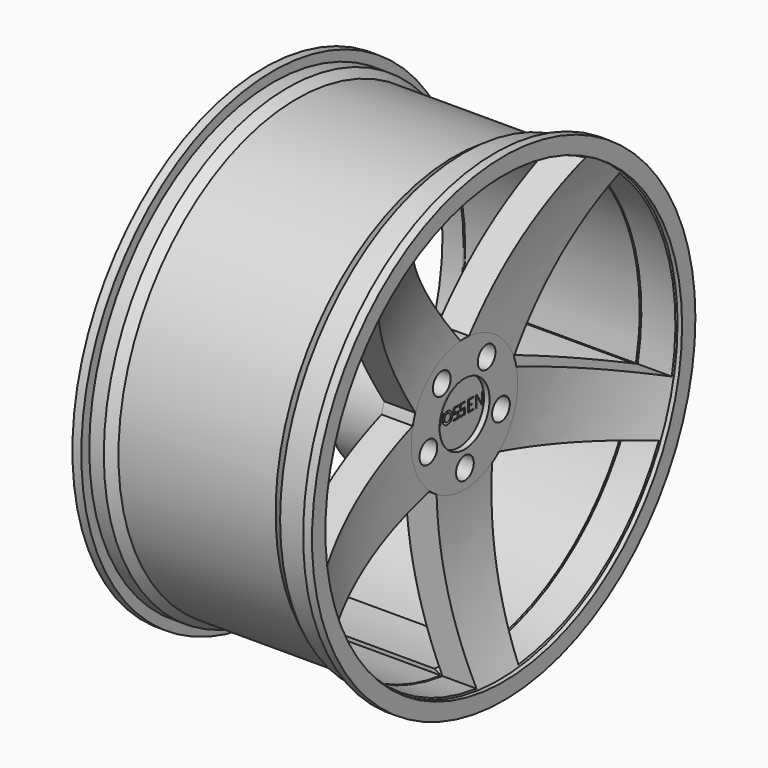
from build123d import *

# Parameters (mm, degrees)
SKETCH002_R           = 50
POCKET_DEPTH          = 25
SKETCH004_R           = 10
POCKET002_DEPTH       = 108.001
POCKET002_DEPTH_BACK  = 108.001
POCKET003_DEPTH       = 1404.001
POCKET003_DEPTH_BACK  = 1404.001
POLARPATTERN_COUNT    = 5
SKETCH006_R           = 10
POCKET004_DEPTH       = 1476.68432
POLARPATTERN001_COUNT = 5
SKETCH007_R           = 28.189095
POCKET005_DEPTH       = 5
SKETCH008_R           = 5.5
SKETCH008_R_2         = 3.5
POCKET006_DEPTH       = 5


with BuildPart() as part:
    # Sketch → Revolution (revolve)
    with BuildSketch(Plane.XY):
        Polygon((65.398537, 196), (73.283608, 201), (108, 201), (108, 216), (100, 216), (100, 207), (72.030521, 207), (63.161045, 201.026306), (-78.478595, 201.026306), (-86.908587, 207), (-100, 207), (-100, 216), (-108, 216), (-108, 201), (-99.298126, 201), (-89.018097, 201), (-80.00956, 196), align=None)
    revolve(axis=Axis((0, 0, 0), (1, 0, 0)))

    # Sketch002 → Pocket (cut)
    with BuildSketch(Plane.YZ.offset(100.668172)):
        Circle(SKETCH002_R)
    extrude(amount=-POCKET_DEPTH, mode=Mode.SUBTRACT)

    # Sketch004 → Pocket002 (cut, two sides)
    with BuildSketch(Plane.YZ) as pocket002_sk:
        with Locations((-0.107707, 35)):
            Circle(SKETCH004_R)
    extrude(amount=-POCKET002_DEPTH, mode=Mode.SUBTRACT)
    extrude(pocket002_sk.sketch, amount=POCKET002_DEPTH_BACK, mode=Mode.SUBTRACT)

    # Sketch001 → Revolution001 (revolve)
    with BuildSketch(Plane.XZ):
        with BuildLine():
            Line((0, 0), (72.68332, 0))
            Line((72.68332, 0), (72.68332, 60))
            ThreePointArc((106.76876, 206.912384), (81.092688, 135.459234), (72.68332, 60))
            Line((106.76876, 206.912384), (100.987969, 206.912384))
            Line((100.987969, 206.912384), (100.987969, 200.673078))
            Line((72.961357, 200.673078), (100.987969, 200.673078))
            ThreePointArc((72.961357, 200.673078), (51.561424, 131.791826), (44.59595, 60))
            Line((44.59595, 60), (0, 60))
            Line((0, 60), (0, 0))
        make_face()
    revolve(axis=Axis((0, 0, 0), (1, 0, 0)))

    # Sketch005 → Pocket003 (cut, two sides)
    with BuildSketch(Plane.YZ) as pocket003_sk:
        with BuildLine():
            Line((5.093784, 59.838285), (98.267148, 173.556521))
            ThreePointArc((98.267148, 173.556521), (1.040406, 199.58162), (-96.489513, 174.716788))
            Line((-4.582864, 59.879582), (-96.489513, 174.716788))
            ThreePointArc((5.093784, 59.838285), (0.256293, 60.054153), (-4.582864, 59.879582))
        make_face()
    pocket003 = extrude(amount=-POCKET003_DEPTH, mode=Mode.SUBTRACT) + extrude(pocket003_sk.sketch, amount=POCKET003_DEPTH_BACK, mode=Mode.SUBTRACT)

    # PolarPattern: Pocket003 ×5 about axis
    polarpattern_axis = Axis((0, 0, 0), (1, 0, 0))
    for i in range(1, POLARPATTERN_COUNT):
        add(pocket003.rotate(polarpattern_axis, i * 360 / POLARPATTERN_COUNT), mode=Mode.SUBTRACT)

    # Sketch006 (on Face55 of PolarPattern) → Pocket004 (cut, through all)
    with BuildSketch(Plane.YZ.offset(72.68332)):
        with Locations((-25.623848, 34.531412)):
            Circle(SKETCH006_R)
    pocket004 = extrude(amount=-POCKET004_DEPTH, mode=Mode.SUBTRACT)

    # PolarPattern001: Pocket004 ×5 about axis
    polarpattern001_axis = Axis((72.68332, 0, 0), (1, 0, 0))
    for i in range(1, POLARPATTERN001_COUNT):
        add(pocket004.rotate(polarpattern001_axis, i * 360 / POLARPATTERN001_COUNT), mode=Mode.SUBTRACT)

    # Sketch007 (on Face55 of PolarPattern001) → Pocket005 (cut)
    with BuildSketch(Plane.YZ.offset(72.68332)):
        Circle(SKETCH007_R)
    extrude(amount=-POCKET005_DEPTH, mode=Mode.SUBTRACT)

    # Sketch008 (on Face66 of Pocket005) → Pocket006 (cut)
    with BuildSketch(Plane.YZ.offset(67.68332)):
        with Locations((-13.031682, 0.552048)):
            Circle(SKETCH008_R)
        with Locations((-13.031682, 0.552048)):
            Circle(SKETCH008_R_2, mode=Mode.SUBTRACT)
        Polygon((-0.595631, 4.700702), (-5.060372, 4.700702), (-5.060372, 0.865476), (-0.60059, 0.865476), (-0.60059, -4.836585), (-6.239526, -4.836585), (-6.239526, -3.903167), (-1.774784, -3.903167), (-1.774784, -0.067941), (-6.234566, -0.067941), (-6.234566, 5.63412), (-0.595631, 5.63412), align=None)
        Polygon((-27.212528, 5.96222), (-22.539972, -4.779234), (-17.440321, 5.766153), (-18.991193, 5.766153), (-22.539972, -1.400964), (-25.661657, 5.96222), align=None)
        Polygon((6.939365, 5.696333), (1.300429, 5.696333), (1.300429, -0.005728), (5.760212, -0.005728), (5.760212, -3.840954), (1.29547, -3.840954), (1.29547, -4.774372), (6.934406, -4.774372), (6.934406, 0.927689), (2.474623, 0.927689), (2.474623, 4.762915), (6.939365, 4.762915), align=None)
        Polygon((16.282729, 5.609537), (9.964756, 5.609537), (9.964756, 3.706019), (9.964756, 0.83395), (9.964756, -4.907853), (16.282729, -4.907853), (16.282729, -4.057056), (11.200128, -4.057056), (11.200128, -0.016847), (14.430559, -0.016847), (14.430559, 0.83395), (11.200128, 0.83395), (11.200128, 4.75874), (16.282729, 4.75874), align=None)
        Polygon((18.976042, 5.598801), (18.976042, -5.03131), (19.982149, -5.03131), (19.982149, 4.486259), (25.658593, -4.963058), (26.6647, -4.963058), (26.6647, 5.667053), (25.658593, 5.667053), (25.658593, -3.850516), (19.982149, 5.598801), align=None)
    extrude(amount=-POCKET006_DEPTH, mode=Mode.SUBTRACT)


solid = part.part
